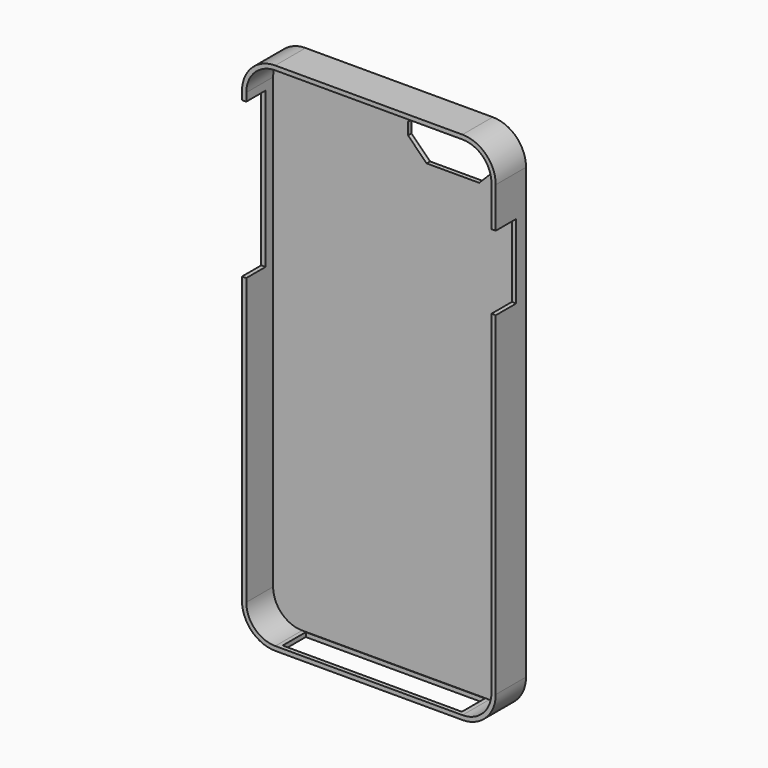
from build123d import *

# Parameters (mm, degrees)
F0_W      = 68.1
F0_H      = 138.3
F1_DEPTH  = 5.08
F2_R      = 8.93259
F3_T      = -1.15
F4_W      = 24.09836
F4_H      = 13.196725
F5_DEPTH  = 12.5
F6_W      = 48.097777
F6_H      = 7.753484
F7_DEPTH  = 12.5
F8_W      = 10.118616
F8_H      = 41.666549
F9_DEPTH  = 12.5
F10_W     = 6.856616
F10_H     = 19.977162
F11_DEPTH = 12.5
F12_SIZE  = 5


with BuildPart() as f1:
    # F0 (on Front) → F1 (new body, symmetric)
    with BuildSketch(Plane.XZ):
        Rectangle(F0_W, F0_H)
    extrude(amount=F1_DEPTH, both=True)

    # F2
    f2_edges = [f1.edges().sort_by_distance(p)[0] for p in [
        (-34.05, 0, 69.15),
        (34.05, 0, 69.15),
        (34.05, 0, -69.15),
        (-34.05, 0, -69.15),
    ]]
    fillet(f2_edges, radius=F2_R)

    # F3
    f3_openings = [f1.faces().sort_by_distance(p)[0] for p in [
        (0, -5.08, 0),
    ]]
    offset(amount=F3_T, openings=f3_openings)

    # F4 (on face) → F5 (cut, symmetric)
    with BuildSketch(Plane.XZ):
        with Locations((15.348363, 59.815576)):
            Rectangle(F4_W, F4_H)
    extrude(amount=F5_DEPTH, both=True, mode=Mode.SUBTRACT)

    # F6 (on face) → F7 (cut, symmetric)
    with BuildSketch(Plane(origin=(0, 0, -69.15), x_dir=(1, 0, 0), z_dir=(0, 0, -1))):
        with Locations((0.003194, 0.064824)):
            Rectangle(F6_W, F6_H)
        with Locations((0.003194, 0.064824)):
            Rectangle(F6_W, F6_H)
    extrude(amount=F7_DEPTH, both=True, mode=Mode.SUBTRACT)

    # F8 (on face) → F9 (cut, symmetric)
    with BuildSketch(Plane(origin=(-34.05, 0, 0), x_dir=(0, -1, 0), z_dir=(-1, 0, 0))):
        with Locations((3.675346, 37.227889)):
            Rectangle(F8_W, F8_H)
    extrude(amount=F9_DEPTH, both=True, mode=Mode.SUBTRACT)

    # F10 (on face) → F11 (cut, symmetric)
    with BuildSketch(Plane.YZ.offset(34.05)):
        with Locations((-1.651692, 39.359077)):
            Rectangle(F10_W, F10_H)
    extrude(amount=F11_DEPTH, both=True, mode=Mode.SUBTRACT)

    # F12
    f12_edges = [f1.edges().sort_by_distance(p)[0] for p in [
        (3.299183, 4.505, 66.413939),
        (27.397543, 4.505, 66.413939),
        (27.397543, 4.505, 53.217214),
        (3.299183, 4.505, 53.217214),
    ]]
    chamfer(f12_edges, length=F12_SIZE)


solid = f1.part
